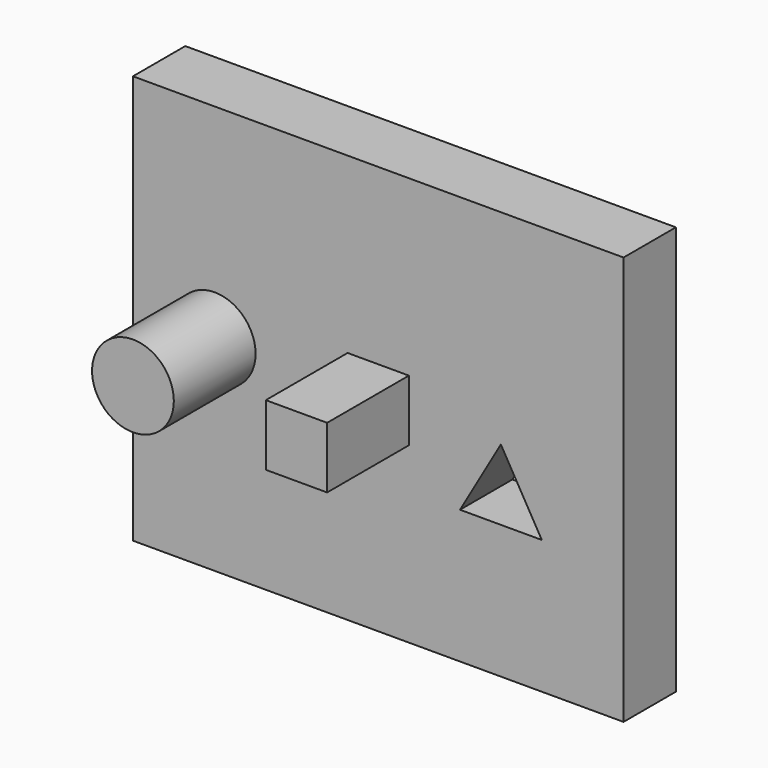
from build123d import *

# Parameters (mm, degrees)
F0_W     = 152.4
F0_H     = 127
F0_R     = 12.7
F1_DEPTH = 20.32
F2_DEPTH = 52.07
F3_DEPTH = 52.07


with BuildPart() as f1:
    # F0 (on Front) → F1 (new body)
    with BuildSketch(Plane.XZ):
        with Locations((-31.75, 0)):
            Rectangle(F0_W, F0_H)
        Polygon((-6.35, -21.997045), (6.35, 0), (19.05, -21.997045), align=None, mode=Mode.SUBTRACT)
        with Locations((-82.55, 0)):
            Circle(F0_R, mode=Mode.SUBTRACT)
        Polygon((-22.225, 9.525), (-22.225, 0), (-22.225, -9.525), (-41.275, -9.525), (-41.275, 0), (-41.275, 9.525), align=None, mode=Mode.SUBTRACT)
    extrude(amount=F1_DEPTH)

    # F0 (on Front) → F2 (join)
    with BuildSketch(Plane.XZ):
        with Locations((-82.55, 0)):
            Circle(F0_R)
    extrude(amount=F2_DEPTH)

    # F0 (on Front) → F3 (join)
    with BuildSketch(Plane.XZ):
        Polygon((-22.225, -9.525), (-22.225, 0), (-31.75, 0), (-41.275, 0), (-41.275, -9.525), align=None)
        Polygon((-31.75, 0), (-22.225, 0), (-22.225, 9.525), (-41.275, 9.525), (-41.275, 0), align=None)
    extrude(amount=F3_DEPTH)


solid = f1.part
